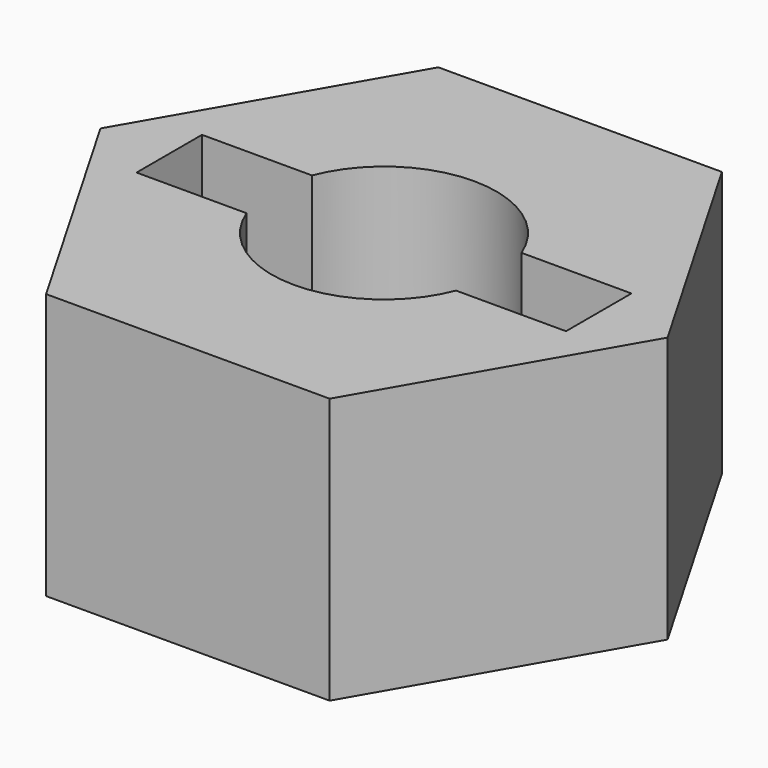
from build123d import *

# Parameters (mm, degrees)
F0_R     = 2.75
F1_DEPTH = 6.5
F3_DEPTH = 4


with BuildPart() as f1:
    # F0 (on Top) → F1 (new body)
    with BuildSketch(Plane.XY):
        Polygon((3.4686009319, -5.997400068), (6.9282012815, 0.0051964886), (3.4596003496, 6.0025965566), (-3.4686009319, 5.997400068), (-6.9282012815, -0.0051964886), (-3.4596003496, -6.0025965566), align=None)
        Circle(F0_R, mode=Mode.SUBTRACT)
    extrude(amount=F1_DEPTH)

    # F2 (on face) → F3 (cut)
    with BuildSketch(Plane.XY.offset(6.5)):
        with BuildLine():
            Line((-5.25, -1), (-2.5617376915, -1))
            ThreePointArc((-2.5617376915, -1), (-2.75, 0), (-2.5617376915, 1))
            Line((-2.5617376915, 1), (-5.25, 1))
            Line((-5.25, 1), (-5.25, -1))
        make_face()
        with BuildLine():
            Line((2.5617376915, -1), (5.25, -1))
            Line((5.25, -1), (5.25, 1))
            Line((5.25, 1), (2.5617376915, 1))
            ThreePointArc((2.5617376915, 1), (2.7025246208, 0.5087835239), (2.75, 0))
            ThreePointArc((2.75, 0), (2.7025246208, -0.5087835239), (2.5617376915, -1))
        make_face()
    extrude(amount=-F3_DEPTH, mode=Mode.SUBTRACT)


solid = f1.part
